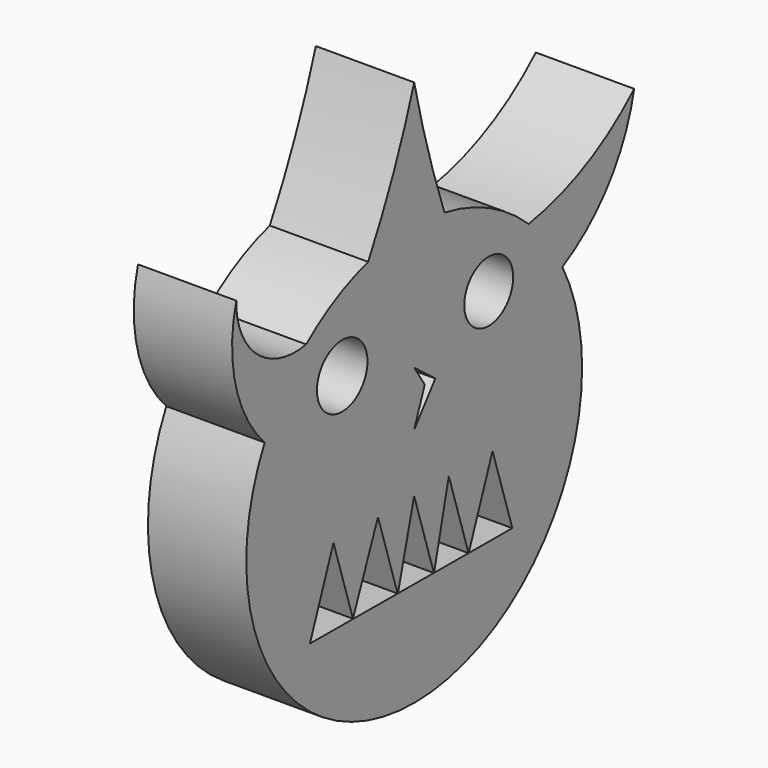
from build123d import *

# Parameters (mm, degrees)
F0_R     = 1.46811
F0_R_2   = 1.420253
F1_DEPTH = 4.572
F3_DEPTH = 43.18


with BuildPart() as f1:
    # F0 (on Right) → F1 (new body)
    with BuildSketch(Plane.YZ):
        with BuildLine():
            ThreePointArc((-8.692775, 4.434258), (-2.280256, -9.488277), (9.758431, 0))
            ThreePointArc((9.758431, 0), (9.467566, 2.364779), (8.612308, 4.588586))
            ThreePointArc((8.612308, 4.588586), (7.73669, 5.947319), (6.648791, 7.142868))
            ThreePointArc((6.648791, 7.142868), (4.380197, 8.720141), (1.760444, 9.598323))
            ThreePointArc((1.760444, 9.598323), (-0.470356, 9.747089), (-2.676466, 9.384216))
            ThreePointArc((-2.676466, 9.384216), (-4.578192, 8.617838), (-6.27781, 7.471016))
            ThreePointArc((-6.27781, 7.471016), (-7.63774, 6.07387), (-8.692775, 4.434258))
        make_face()
        Polygon((0.613606, 3.02258), (0, 3.966401), (1.227212, 3.02258), (0, 1.426886), align=None, mode=Mode.SUBTRACT)
        with Locations((-4.183355, 5.331648)):
            Circle(F0_R, mode=Mode.SUBTRACT)
        with Locations((4.331252, 5.331648)):
            Circle(F0_R_2, mode=Mode.SUBTRACT)
        with BuildLine():
            ThreePointArc((-10.339167, 10.911578), (-10.376235, 7.454258), (-8.692775, 4.434258))
            ThreePointArc((-8.692775, 4.434258), (-7.63774, 6.07387), (-6.27781, 7.471016))
            ThreePointArc((-6.27781, 7.471016), (-9.128636, 8.223166), (-10.339167, 10.911578))
        make_face()
        with BuildLine():
            ThreePointArc((-2.676466, 9.384216), (-0.470356, 9.747089), (1.760444, 9.598323))
            ThreePointArc((1.760444, 9.598323), (0.786368, 12.592606), (0, 15.641569))
            ThreePointArc((0, 15.641569), (-1.192302, 12.450473), (-2.676466, 9.384216))
        make_face()
        with BuildLine():
            ThreePointArc((6.648791, 7.142868), (7.73669, 5.947319), (8.612308, 4.588586))
            ThreePointArc((8.612308, 4.588586), (11.327665, 6.916024), (12.784462, 10.182194))
            ThreePointArc((12.784462, 10.182194), (9.94806, 8.195321), (6.648791, 7.142868))
        make_face()
    extrude(amount=F1_DEPTH)

    # F2 (on face) → F3 (cut)
    with BuildSketch(Plane.YZ.offset(4.572)):
        Polygon((-2.102799, -1.290385), (-3.559476, -4.863396), (-4.690866, -1.290385), (-6.058958, -4.863396), (-0.963283, -4.889062), align=None)
        Polygon((0, -1.290385), (-0.943871, -4.88916), (1.142875, -4.89967), align=None)
        Polygon((2.011822, -1.290385), (1.155581, -4.899734), (3.157911, -4.909819), align=None)
        Polygon((4.552746, -1.290385), (3.166861, -4.909864), (5.702894, -4.922638), align=None)
    extrude(amount=-F3_DEPTH, mode=Mode.SUBTRACT)


solid = f1.part
